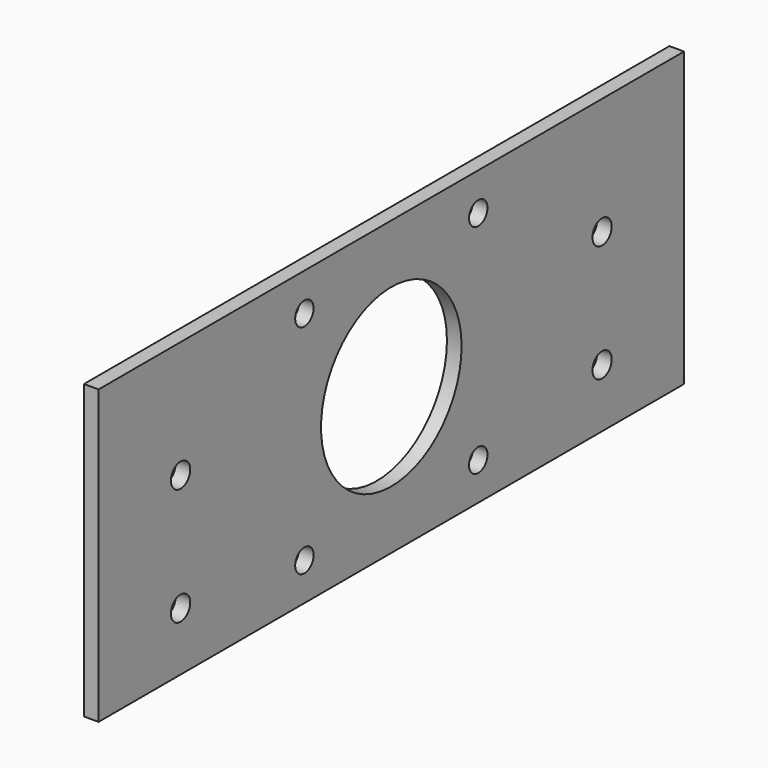
from build123d import *

# Parameters (mm, degrees)
F0_W     = 3.175
F0_H     = 63.5
F1_DEPTH = 158.75
F2_R     = 2.5
F2_R_2   = 19.05
F2_R_3   = 2.6162
F3_DEPTH = 3.176


with BuildPart() as f1:
    # F0 (on Front) → F1 (new body)
    with BuildSketch(Plane.XZ):
        Rectangle(F0_W, F0_H)
    extrude(amount=F1_DEPTH)

    # F2 (on face) → F3 (cut, through all)
    with BuildSketch(Plane.YZ.offset(1.5875)):
        with Locations((-102.945, 23.57)):
            Circle(F2_R)
        with Locations((-55.805, 23.57)):
            Circle(F2_R)
        with Locations((-102.945, -23.57)):
            Circle(F2_R)
        with Locations((-55.805, -23.57)):
            Circle(F2_R)
        with Locations((-79.375, 0)):
            Circle(F2_R_2)
        with Locations((-22.225, 6.35)):
            Circle(F2_R_3)
        with Locations((-22.225, -19.05)):
            Circle(F2_R_3)
        with Locations((-136.525, 6.35)):
            Circle(F2_R_3)
        with Locations((-136.525, -19.05)):
            Circle(F2_R_3)
    extrude(amount=-F3_DEPTH, mode=Mode.SUBTRACT)


solid = f1.part
